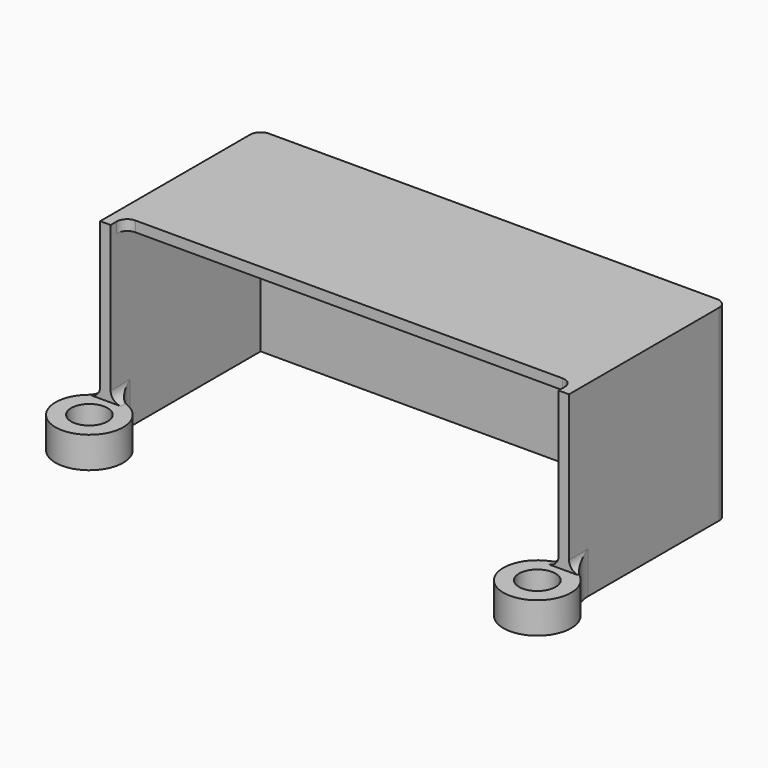
from build123d import *

# Parameters (mm, degrees)
F1_DEPTH = 18
F2_R     = 3.25
F3_DEPTH = 3
F5_W     = 45
F5_H     = 17.2675769106
F6_DEPTH = 1
F7_R     = 1.75
F8_DEPTH = 25
F9_R     = 3
F10_R    = 1
F11_R    = 3
F12_R    = 1
F13_R    = 1
F14_R    = 1
F15_R    = 1
F16_R    = 1
F17_R    = 2
F18_R    = 1
F19_R    = 2
F20_R    = 1


with BuildPart() as f1:
    # F0 (on Top) → F1 (new body)
    with BuildSketch(Plane.XY):
        Polygon((22.5, 16), (-22.5, 16), (-22.5, -3), (-21.5, -3), (-21.5, 15), (21.5, 15), (21.5, -3), (22.5, -3), align=None)
    extrude(amount=F1_DEPTH)

    # F2 (on Top) → F3 (join)
    with BuildSketch(Plane.XY):
        with Locations((-21.5, -5.55)):
            Circle(F2_R)
        with Locations((21.5, -5.55)):
            Circle(F2_R)
    extrude(amount=F3_DEPTH)

    # F5 (on offset) → F6 (join)
    with BuildSketch(Plane.XY.offset(18)):
        with Locations((0, 7.3662115447)):
            Rectangle(F5_W, F5_H)
    extrude(amount=-F6_DEPTH)

    # F7 (on Top) → F8 (cut)
    with BuildSketch(Plane.XY):
        with Locations((21.5, -5.55)):
            Circle(F7_R)
        with Locations((-21.5, -5.55)):
            Circle(F7_R)
    extrude(amount=F8_DEPTH, mode=Mode.SUBTRACT)

    # F9
    f9_edges = [f1.edges().sort_by_distance(p)[0] for p in [
        (22.5, -2.457671, 1.5),
    ]]
    fillet(f9_edges, radius=F9_R)

    # F10
    f10_edges = [f1.edges().sort_by_distance(p)[0] for p in [
        (22.5, -2.728835, 3),
    ]]
    fillet(f10_edges, radius=F10_R)

    # F11
    f11_edges = [f1.edges().sort_by_distance(p)[0] for p in [
        (-22.5, -2.457671, 1.5),
    ]]
    fillet(f11_edges, radius=F11_R)

    # F12
    f12_edges = [f1.edges().sort_by_distance(p)[0] for p in [
        (-22.5, -2.728835, 3),
    ]]
    fillet(f12_edges, radius=F12_R)

    # F13
    f13_edges = [f1.edges().sort_by_distance(p)[0] for p in [
        (-22.5, 16, 9),
    ]]
    fillet(f13_edges, radius=F13_R)

    # F14
    f14_edges = [f1.edges().sort_by_distance(p)[0] for p in [
        (22.5, 16, 9),
    ]]
    fillet(f14_edges, radius=F14_R)

    # F15
    f15_edges = [f1.edges().sort_by_distance(p)[0] for p in [
        (-21.5, -1.267577, 17.5),
    ]]
    fillet(f15_edges, radius=F15_R)

    # F16
    f16_edges = [f1.edges().sort_by_distance(p)[0] for p in [
        (21.5, -1.267577, 17.5),
    ]]
    fillet(f16_edges, radius=F16_R)

    # F17
    f17_edges = [f1.edges().sort_by_distance(p)[0] for p in [
        (-21.5, -2.3, 1.5),
    ]]
    fillet(f17_edges, radius=F17_R)

    # F18
    f18_edges = [f1.edges().sort_by_distance(p)[0] for p in [
        (-21.5, -2.65, 3),
    ]]
    fillet(f18_edges, radius=F18_R)

    # F19
    f19_edges = [f1.edges().sort_by_distance(p)[0] for p in [
        (21.5, -2.3, 1.5),
    ]]
    fillet(f19_edges, radius=F19_R)

    # F20
    f20_edges = [f1.edges().sort_by_distance(p)[0] for p in [
        (21.5, -2.65, 3),
    ]]
    fillet(f20_edges, radius=F20_R)


solid = f1.part
